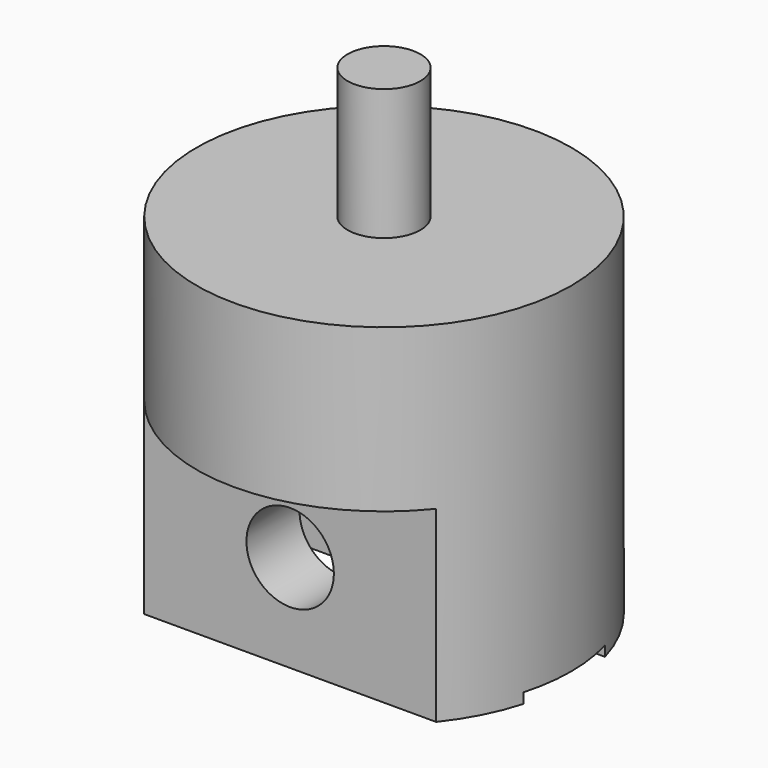
from build123d import *

# Parameters (mm, degrees)
F0_R     = 6.425
F1_DEPTH = 12
F2_R     = 1.5
F3_DEPTH = 12.5
F5_DEPTH = 1.75
F6_W     = 3.5
F6_H     = 0.3499913151
F6_W_2   = 2.4
F6_H_2   = 1.6
F6_H_3   = 3
F6_H_4   = 1.8378814235
F7_DEPTH = 12.5
F8_R     = 1.25
F9_DEPTH = 4.5


with BuildPart() as f1:
    # F0 (on Top) → F1 (new body)
    with BuildSketch(Plane.XY):
        Circle(F0_R)
    extrude(amount=-F1_DEPTH)

    # F2 (on Front) → F3 (cut, symmetric)
    with BuildSketch(Plane.XZ):
        with Locations((0, -8.6621185765)):
            Circle(F2_R)
    extrude(amount=F3_DEPTH, both=True, mode=Mode.SUBTRACT)

    # F4 (on Front) → F5 (cut, symmetric)
    with BuildSketch(Plane.XZ):
        with BuildLine():
            Line((6.425, -12), (2.7726078369, -6.7377301586))
            ThreePointArc((2.7726078369, -6.7377301586), (0, -5.2871185765), (-2.7726078369, -6.7377301586))
            Line((-2.7726078369, -6.7377301586), (-6.425, -12))
            Line((-6.425, -12), (6.425, -12))
        make_face()
    extrude(amount=F5_DEPTH, both=True, mode=Mode.SUBTRACT)

    # F6 (on Right) → F7 (cut, symmetric)
    with BuildSketch(Plane.YZ):
        with Locations((0, -11.8250043425)):
            Rectangle(F6_W, F6_H)
        with Locations((-5.225, -6.3621185765)):
            Rectangle(F6_W_2, F6_H_2)
        with Locations((-5.225, -8.6621185765)):
            Rectangle(F6_W_2, F6_H_3)
        with Locations((-5.225, -11.0810592882)):
            Rectangle(F6_W_2, F6_H_4)
    extrude(amount=F7_DEPTH, both=True, mode=Mode.SUBTRACT)

    # F8 (on face) → F9 (join)
    with BuildSketch(Plane.XY):
        Circle(F8_R)
    extrude(amount=F9_DEPTH)


solid = f1.part
